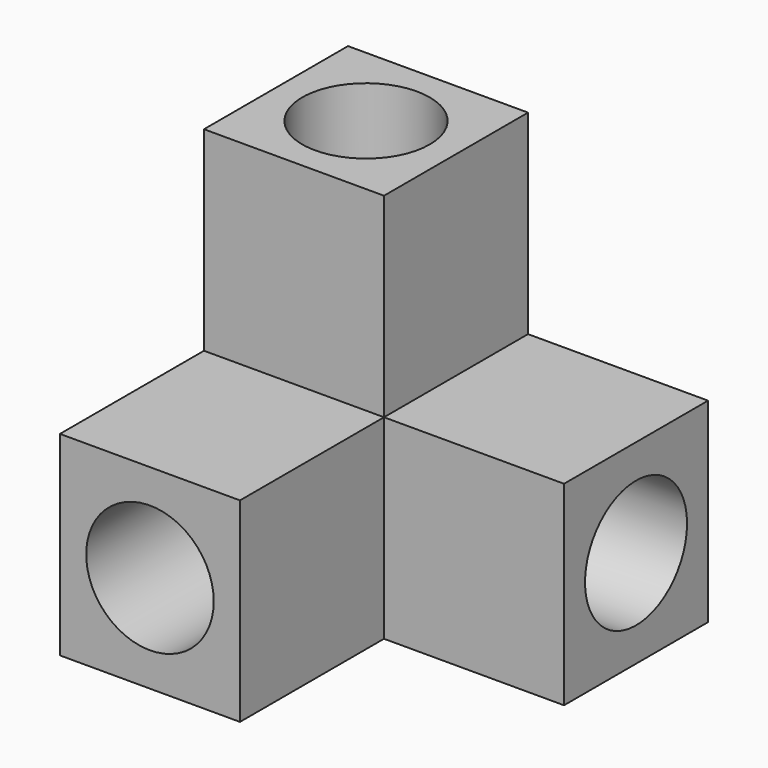
from build123d import *

# Parameters (mm, degrees)
F0_W     = 120
F0_H     = 120
F0_R     = 42.5
F1_DEPTH = 260
F2_DEPTH = 130
F3_R     = 42.5
F5_DEPTH = 180
F4_R     = 42.5
F6_DEPTH = 180
F7_DEPTH = 20


with BuildPart() as f1:
    # F0 (on Top) → F1 (new body)
    with BuildSketch(Plane.XY):
        Rectangle(F0_W, F0_H)
        Circle(F0_R, mode=Mode.SUBTRACT)
    extrude(amount=F1_DEPTH)

    # F0 (on Top) → F2 (join)
    with BuildSketch(Plane.XY):
        with Locations((120, 0)):
            Rectangle(F0_W, F0_H)
        with Locations((0, -120)):
            Rectangle(F0_W, F0_H)
    extrude(amount=F2_DEPTH)

    # F3 (on face) → F5 (cut)
    with BuildSketch(Plane.XZ.offset(180)):
        with Locations((0, 65)):
            Circle(F3_R)
    extrude(amount=-F5_DEPTH, mode=Mode.SUBTRACT)

    # F4 (on face) → F6 (cut)
    with BuildSketch(Plane.YZ.offset(180)):
        with Locations((0, 65)):
            Circle(F4_R)
    extrude(amount=-F6_DEPTH, mode=Mode.SUBTRACT)

    # F0 (on Top) → F7 (join)
    with BuildSketch(Plane.XY):
        Circle(F0_R)
    extrude(amount=F7_DEPTH)


solid = f1.part
